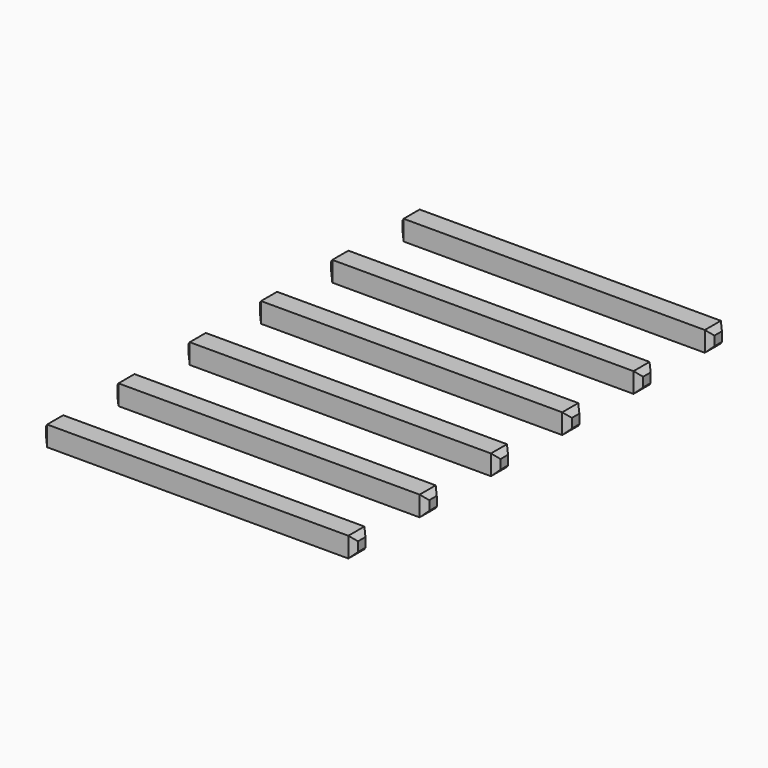
from build123d import *

# Parameters (mm, degrees)
SKETCH020_W           = 0.45
SKETCH020_H           = 0.45
PAD007_DEPTH          = 7
CHAMFER002_SIZE       = 0.12
ARRAY_X_COUNT         = 6
ARRAY_X_PITCH         = 2
ARRAY_ROLL_ANGLE      = 90
ARRAY_PLACEMENT_ANGLE = 90


with BuildPart() as part:
    # Sketch020 → Pad007 (new body)
    with BuildSketch(Plane.XY):
        Rectangle(SKETCH020_W, SKETCH020_H)
    extrude(amount=PAD007_DEPTH)

    # Chamfer002
    chamfer002_edges = [part.edges().sort_by_distance(p)[0] for p in [
        (0, 0.225, 0),
        (0.225, 0, 0),
        (0, -0.225, 0),
        (-0.225, 0, 0),
        (0, 0.225, 7),
        (0.225, 0, 7),
        (0, -0.225, 7),
        (-0.225, 0, 7),
    ]]
    chamfer(chamfer002_edges, length=CHAMFER002_SIZE)

    # Array X: part ×6


with BuildPart() as part_1:
    add(part.part)
    with Locations(*[(i * ARRAY_X_PITCH, 0, 0) for i in range(1, ARRAY_X_COUNT)]):
        add(part.part)


with BuildPart() as part_2:
    # Array roll: moved
    add(part_1.part.rotate(Axis((0, 0, 0), (1, 0, 0)), ARRAY_ROLL_ANGLE))


with BuildPart() as part_3:
    # Array placement: moved
    add(part_2.part.moved(Location((18, -5, -32.225))).rotate(Axis((18, -5, -32.225), (0, 0, 1)), ARRAY_PLACEMENT_ANGLE))


solid = part_3.part
